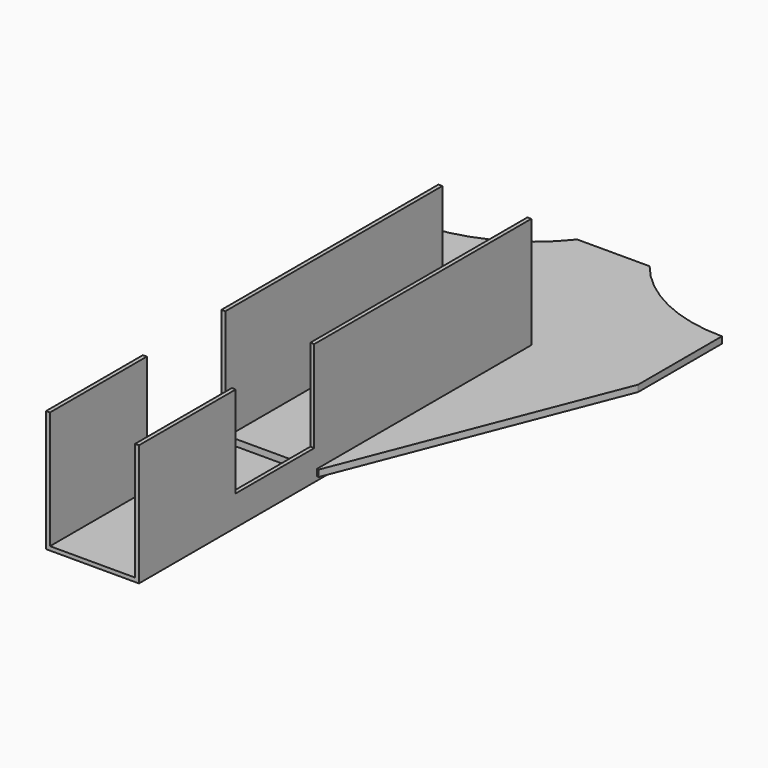
from build123d import *

# Parameters (mm, degrees)
F1_DEPTH = 375
F2_W     = 75
F2_H     = 70
F3_DEPTH = 107
F5_DEPTH = 5


with BuildPart() as f1:
    # F0 (on Front) → F1 (new body)
    with BuildSketch(Plane.XZ):
        Polygon((-31.746836, 0), (-31.746836, 90), (-34.746836, 90), (-34.746836, -3), (36.253164, -3), (36.253164, 90), (33.253164, 90), (33.253164, 0), align=None)
    extrude(amount=F1_DEPTH)

    # F2 (on face) → F3 (cut)
    with BuildSketch(Plane.YZ.offset(36.253164)):
        with Locations((-245, 55)):
            Rectangle(F2_W, F2_H)
    extrude(amount=-F3_DEPTH, mode=Mode.SUBTRACT)


with BuildPart() as f5:
    # F4 (on Top) → F5 (new body)
    with BuildSketch(Plane.XY):
        with BuildLine():
            Line((-118, 80), (-118, 0))
            Line((-118, 0), (118, 0))
            Line((118, 0), (118, 80))
            ThreePointArc((118, 80), (67.821255, 91.524913), (27.7, 123.789678))
            Line((27.7, 123.789678), (-27.7, 123.789678))
            ThreePointArc((-27.7, 123.789678), (-67.821255, 91.524913), (-118, 80))
        make_face()
        Polygon((118, 0), (-118, 0), (-37.7, -205), (37.7, -205), align=None)
    extrude(amount=F5_DEPTH)


solid = Compound([f1.part, f5.part])
